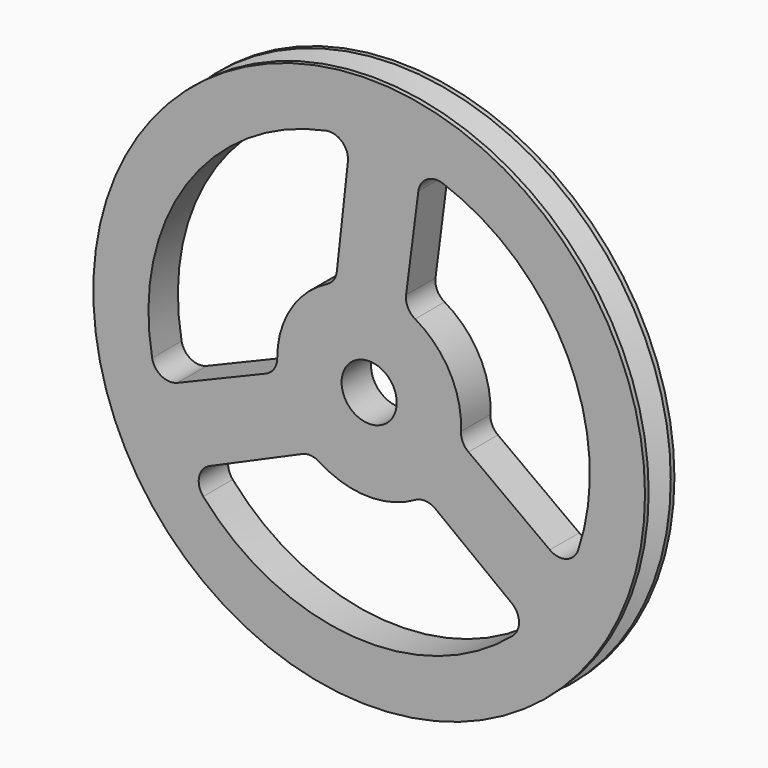
from build123d import *

# Parameters (mm, degrees)
F0_R     = 15
F0_R_2   = 1.5
F1_DEPTH = 1


with BuildPart() as f1:
    # F0 (on Front) → F1 (new body, symmetric)
    with BuildSketch(Plane.XZ):
        Circle(F0_R)
        with BuildLine():
            ThreePointArc((-9.019874, -7.914662), (-9.244477, -7.038502), (-8.6704, -6.339547))
            Line((-8.6704, -6.339547), (-3.645557, -4.132263))
            ThreePointArc((-3.645557, -4.132263), (-3.164852, -4.050911), (-2.702813, -4.206519))
            ThreePointArc((-2.702813, -4.206519), (-0.118756, -4.99859), (2.5, -4.330127))
            ThreePointArc((2.5, -4.330127), (3.064018, -4.198204), (3.606557, -4.401113))
            Line((3.606557, -4.401113), (7.754689, -7.565834))
            ThreePointArc((7.754689, -7.565834), (8.147745, -8.333059), (7.797962, -9.120953))
            ThreePointArc((7.797962, -9.120953), (-0.858518, -11.96925), (-9.019874, -7.914662))
        make_face(mode=Mode.SUBTRACT)
        with BuildLine():
            ThreePointArc((-11.797958, -2.192756), (-9.936416, 6.728123), (-2.344361, 11.768771))
            ThreePointArc((-2.344361, 11.768771), (-1.473282, 11.525203), (-1.155009, 10.67856))
            Line((-1.155009, 10.67856), (-1.755867, 5.223276))
            ThreePointArc((-1.755867, 5.223276), (-1.925765, 4.766298), (-2.291546, 4.443964))
            ThreePointArc((-2.291546, 4.443964), (-4.269528, 2.60214), (-5, 0))
            ThreePointArc((-5, 0), (-5.16776, -0.554416), (-5.614754, -0.922814))
            Line((-5.614754, -0.922814), (-10.429549, -2.932841))
            ThreePointArc((-10.429549, -2.932841), (-11.290513, -2.889625), (-11.797958, -2.192756))
        make_face(mode=Mode.SUBTRACT)
        Circle(F0_R_2, mode=Mode.SUBTRACT)
        with BuildLine():
            Line((2.008197, 5.323927), (2.67486, 10.498675))
            ThreePointArc((2.67486, 10.498675), (3.142768, 11.222683), (3.999996, 11.31371))
            ThreePointArc((3.999996, 11.31371), (10.794933, 5.241127), (11.364235, -3.854109))
            ThreePointArc((11.364235, -3.854109), (10.71776, -4.486702), (9.825408, -4.339013))
            Line((9.825408, -4.339013), (5.401423, -1.091013))
            ThreePointArc((5.401423, -1.091013), (5.090618, -0.715387), (4.994359, -0.237445))
            ThreePointArc((4.994359, -0.237445), (4.388283, 2.396449), (2.5, 4.330127))
            ThreePointArc((2.5, 4.330127), (2.103742, 4.75262), (2.008197, 5.323927))
        make_face(mode=Mode.SUBTRACT)
    extrude(amount=F1_DEPTH, both=True)

    # F2 (on Right) → F3 (revolve, cut)
    with BuildSketch(Plane.YZ):
        Polygon((-0.75, 15), (0, 13.5), (0, 15), align=None)
        Polygon((0, 15), (0, 13.5), (0.75, 15), align=None)
    revolve(axis=Axis((0, 0.05465, 0), (0, -1, 0)), mode=Mode.SUBTRACT)


solid = f1.part
